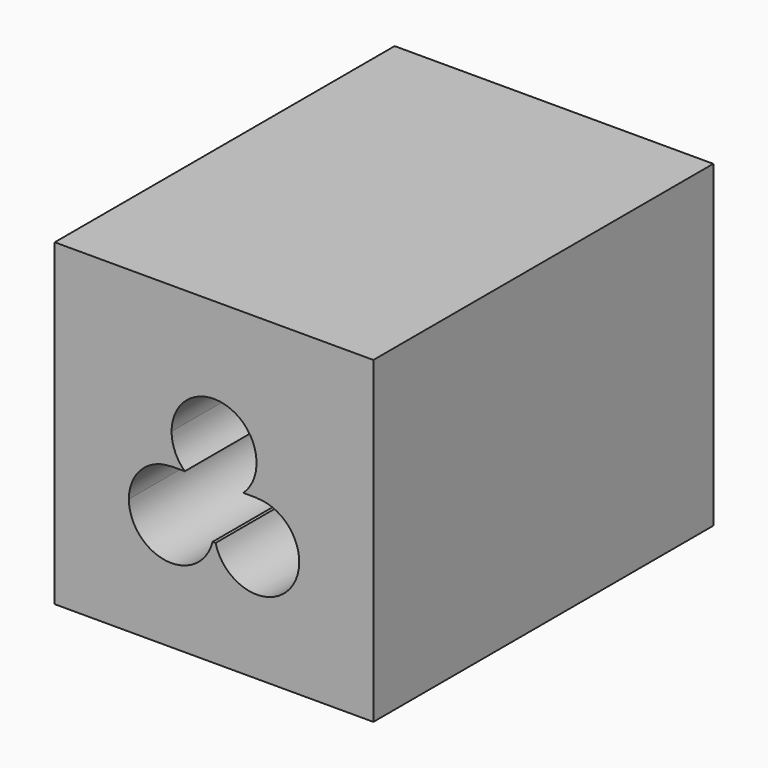
from build123d import *

# Parameters (mm, degrees)
F1_DEPTH = 20
F3_DEPTH = 20.001
F4_W     = 2.488287
F4_H     = 23.197157
F5_DEPTH = 2.5


with BuildPart() as f1:
    # F0 (on Front) → F1 (new body)
    with BuildSketch(Plane.XZ):
        Polygon((-7.5, -7.5), (7.5, -7.5), (7.5, 7.5), (2, 7.5), (0, 7.5), (-7.5, 7.5), align=None)
    extrude(amount=F1_DEPTH)

    # F2 (on face) → F3 (cut, through all)
    with BuildSketch(Plane(origin=(0, 0, 0), x_dir=(-1, 0, 0), z_dir=(0, 1, 0))):
        with BuildLine():
            Line((-1.379276, 0), (0, 0))
            Line((0, 0), (1.379276, 0))
            ThreePointArc((1.379276, 0), (1.838281, 0.660448), (2, 1.448309))
            ThreePointArc((2, 1.448309), (-0.787861, 3.286589), (-1.379276, 0))
        make_face()
        with BuildLine():
            Line((1.379276, 0), (0, 0))
            Line((0, 0), (-1.379276, 0))
            ThreePointArc((-1.379276, 0), (-1.20038, -0.151406), (-1.005, -0.280846))
            ThreePointArc((-1.005, -0.280846), (0, -0.551691), (1.005, -0.280846))
            ThreePointArc((1.005, -0.280846), (1.20038, -0.151406), (1.379276, 0))
        make_face()
        with BuildLine():
            Line((2.01, 0), (1.379276, 0))
            ThreePointArc((1.379276, 0), (1.20038, -0.151406), (1.005, -0.280846))
            ThreePointArc((1.005, -0.280846), (1.489572, -0.078898), (2.01, -0.01))
            Line((2.01, -0.01), (2.01, 0))
        make_face()
        with BuildLine():
            ThreePointArc((-1.005, -0.280846), (-1.20038, -0.151406), (-1.379276, 0))
            Line((-1.379276, 0), (-2.01, 0))
            Line((-2.01, 0), (-2.01, -0.01))
            ThreePointArc((-2.01, -0.01), (-1.489572, -0.078898), (-1.005, -0.280846))
        make_face()
        with BuildLine():
            ThreePointArc((2.01, -0.01), (1.489572, -0.078898), (1.005, -0.280846))
            ThreePointArc((1.005, -0.280846), (1.012503, -3.743494), (4.01, -2.01))
            ThreePointArc((4.01, -2.01), (3.424214, -0.595786), (2.01, -0.01))
        make_face()
        with BuildLine():
            ThreePointArc((-0.01, -2.01), (-0.276506, -1.012503), (-1.005, -0.280846))
            ThreePointArc((-1.005, -0.280846), (-1.489572, -0.078898), (-2.01, -0.01))
            ThreePointArc((-2.01, -0.01), (-3.424214, -3.424214), (-0.01, -2.01))
        make_face()
    extrude(amount=-F3_DEPTH, mode=Mode.SUBTRACT)

    # F4 (on Top) → F5 (cut)
    with BuildSketch(Plane.XY):
        with Locations((0.051259, -9.1946)):
            Rectangle(F4_W, F4_H)
    extrude(amount=-F5_DEPTH, mode=Mode.SUBTRACT)


solid = f1.part
